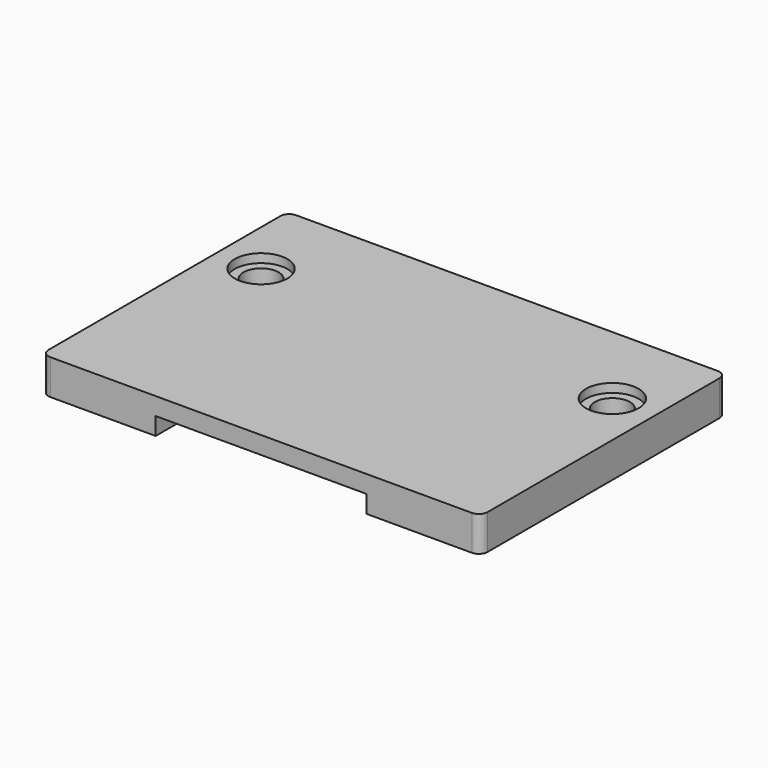
from build123d import *

# Parameters (mm, degrees)
SKETCH_W        = 50
SKETCH_H        = 35
PAD_DEPTH       = 4
SKETCH001_R     = 3
POCKET_DEPTH    = 1
SKETCH002_R     = 2
POCKET001_DEPTH = 5
SKETCH003_W     = 24
SKETCH003_H     = 25
POCKET002_DEPTH = 2
FILLET_R        = 1
FILLET001_R     = 1
FILLET002_R     = 1
FILLET003_R     = 1


with BuildPart() as part:
    # Sketch → Pad (new body)
    with BuildSketch(Plane.XY):
        with Locations((25, 17.5)):
            Rectangle(SKETCH_W, SKETCH_H)
    extrude(amount=PAD_DEPTH)

    # Sketch001 → Pocket (cut)
    with BuildSketch(Plane.XY.offset(4)):
        with Locations((45, 25)):
            Circle(SKETCH001_R)
        with Locations((5, 25)):
            Circle(SKETCH001_R)
    extrude(amount=-POCKET_DEPTH, mode=Mode.SUBTRACT)

    # Sketch002 → Pocket001 (cut)
    with BuildSketch(Plane.XY.offset(4)):
        with Locations((5, 25)):
            Circle(SKETCH002_R)
        with Locations((45, 25)):
            Circle(SKETCH002_R)
    extrude(amount=-POCKET001_DEPTH, mode=Mode.SUBTRACT)

    # Sketch003 → Pocket002 (cut)
    with BuildSketch(Plane(origin=(0, 0, 0), x_dir=(1, 0, 0), z_dir=(0, 0, -1))):
        with Locations((25, -12.5)):
            Rectangle(SKETCH003_W, SKETCH003_H)
    extrude(amount=-POCKET002_DEPTH, mode=Mode.SUBTRACT)

    # Fillet
    fillet_edges = [part.edges().sort_by_distance(p)[0] for p in [
        (50, 35, 2),
    ]]
    fillet(fillet_edges, radius=FILLET_R)

    # Fillet001
    fillet001_edges = [part.edges().sort_by_distance(p)[0] for p in [
        (0, 35, 2),
    ]]
    fillet(fillet001_edges, radius=FILLET001_R)

    # Fillet002
    fillet002_edges = [part.edges().sort_by_distance(p)[0] for p in [
        (0, 0, 2),
    ]]
    fillet(fillet002_edges, radius=FILLET002_R)

    # Fillet003
    fillet003_edges = [part.edges().sort_by_distance(p)[0] for p in [
        (50, 0, 2),
    ]]
    fillet(fillet003_edges, radius=FILLET003_R)


solid = part.part
